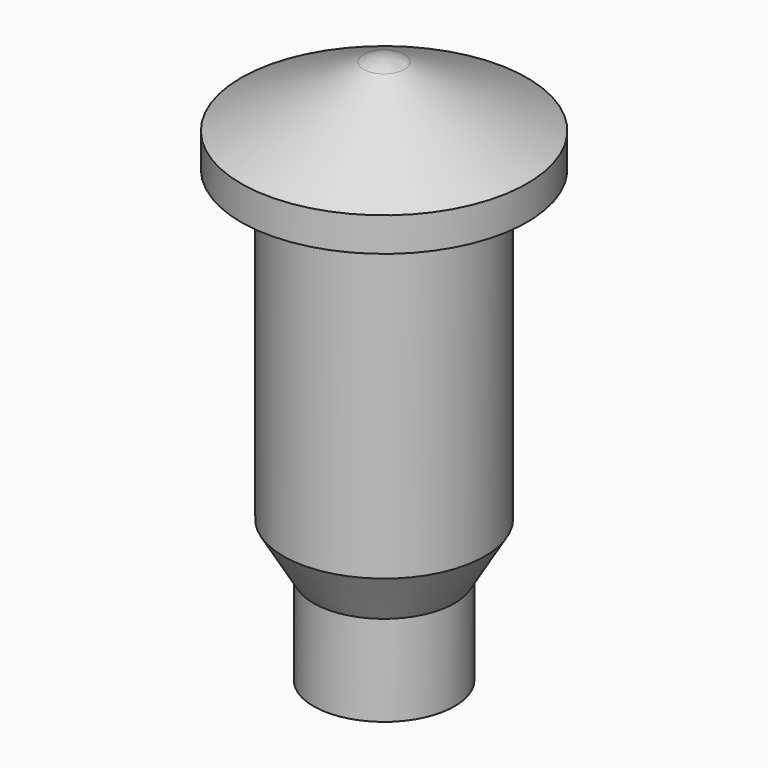
from build123d import *

# Parameters (mm, degrees)
F2_R     = 31.5
F3_DEPTH = 40


with BuildPart() as f1:
    # F0 (on Front) → F1 (revolve)
    with BuildSketch(Plane.XZ):
        with BuildLine():
            Line((-35, 0), (0, 0))
            Line((0, 0), (0, 272.395989))
            ThreePointArc((0, 272.395989), (-5.180591, 271.786704), (-10.090656, 270.025733))
            Line((-10.090656, 270.025733), (-71, 240))
            Line((-71, 240), (-71, 223.14471))
            Line((-71, 223.14471), (-50, 223.14471))
            Line((-50, 223.14471), (-50, 70.386211))
            Line((-50, 70.386211), (-35, 45))
            Line((-35, 45), (-35, 0))
        make_face()
    revolve(axis=Axis((0, 0, 137.5), (0, 0, -1)))

    # F2 (on face) → F3 (cut)
    with BuildSketch(Plane(origin=(0, 0, 0), x_dir=(1, 0, 0), z_dir=(0, 0, -1))):
        Circle(F2_R)
    extrude(amount=-F3_DEPTH, mode=Mode.SUBTRACT)


solid = f1.part
